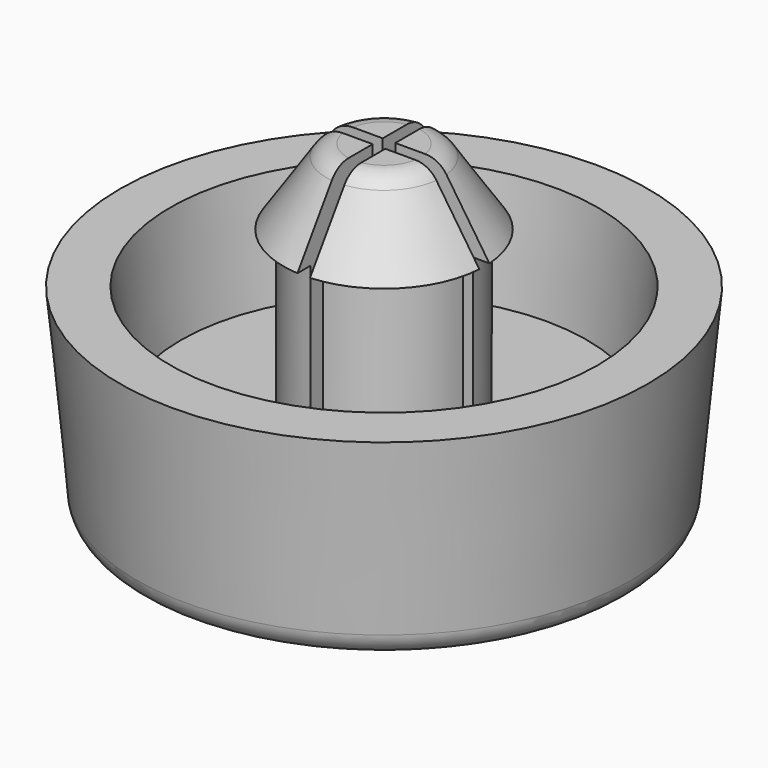
from build123d import *

# Parameters (mm, degrees)
F2_W     = 0.5
F2_H     = 0.5
F3_DEPTH = 9
F4_R     = 1
F5_R     = 1


with BuildPart() as f1:
    # F0 (on Front) → F1 (revolve)
    with BuildSketch(Plane.XZ):
        Polygon((7.75, 0), (9.75, 0), (10.5, 8), (8.5, 8), (8.0775014419, 3.4933487132), (3.35, 3.4933487132), (3.35, 10), (4, 10), (2, 13), (0, 13), (0, 8), (0, 1.4933487132), (3.25, 1.4933487132), (7.75, 1.5), align=None)
    revolve(axis=Axis((0, 0, 4), (0, 0, 1)))

    # F2 (on face) → F3 (cut)
    with BuildSketch(Plane.XY.offset(13)):
        with BuildLine():
            ThreePointArc((-1.9843134833, -0.25), (-2, 0), (-1.9843134833, 0.25))
            Line((-1.9843134833, 0.25), (-4, 0.25))
            Line((-4, 0.25), (-4, -0.25))
            Line((-4, -0.25), (-1.9843134833, -0.25))
        make_face()
        with BuildLine():
            Line((-0.25, -0.25), (-0.25, 0.25))
            Line((-0.25, 0.25), (-1.9843134833, 0.25))
            ThreePointArc((-1.9843134833, 0.25), (-2, 0), (-1.9843134833, -0.25))
            Line((-1.9843134833, -0.25), (-0.25, -0.25))
        make_face()
        Rectangle(F2_W, F2_H)
        with BuildLine():
            Line((1.9843134833, 0.25), (0.25, 0.25))
            Line((0.25, 0.25), (0.25, -0.25))
            Line((0.25, -0.25), (1.9843134833, -0.25))
            ThreePointArc((1.9843134833, -0.25), (1.9960745185, -0.1252458251), (2, 0))
            ThreePointArc((2, 0), (1.9960745185, 0.1252458251), (1.9843134833, 0.25))
        make_face()
        with BuildLine():
            Line((4, 0.25), (1.9843134833, 0.25))
            ThreePointArc((1.9843134833, 0.25), (1.9960745185, 0.1252458251), (2, 0))
            ThreePointArc((2, 0), (1.9960745185, -0.1252458251), (1.9843134833, -0.25))
            Line((1.9843134833, -0.25), (4, -0.25))
            Line((4, -0.25), (4, 0.25))
        make_face()
        with BuildLine():
            Line((0.25, 1.9843134833), (0.25, 4))
            Line((0.25, 4), (-0.25, 4))
            Line((-0.25, 4), (-0.25, 1.9843134833))
            ThreePointArc((-0.25, 1.9843134833), (0, 2), (0.25, 1.9843134833))
        make_face()
        with BuildLine():
            Line((0.25, 0.25), (0.25, 1.9843134833))
            ThreePointArc((0.25, 1.9843134833), (0, 2), (-0.25, 1.9843134833))
            Line((-0.25, 1.9843134833), (-0.25, 0.25))
            Line((-0.25, 0.25), (0.25, 0.25))
        make_face()
        with BuildLine():
            Line((0.25, -1.9843134833), (0.25, -0.25))
            Line((0.25, -0.25), (-0.25, -0.25))
            Line((-0.25, -0.25), (-0.25, -1.9843134833))
            ThreePointArc((-0.25, -1.9843134833), (0, -2), (0.25, -1.9843134833))
        make_face()
        with BuildLine():
            Line((0.25, -4), (0.25, -1.9843134833))
            ThreePointArc((0.25, -1.9843134833), (0, -2), (-0.25, -1.9843134833))
            Line((-0.25, -1.9843134833), (-0.25, -4))
            Line((-0.25, -4), (0.25, -4))
        make_face()
    extrude(amount=-F3_DEPTH, mode=Mode.SUBTRACT)

    # F4
    f4_edges = [f1.edges().sort_by_distance(p)[0] for p in [
        (-9.75, 0, 0),
    ]]
    fillet(f4_edges, radius=F4_R)

    # F5
    f5_edges = [f1.edges().sort_by_distance(p)[0] for p in [
        (-1.414214, -1.414214, 13),
        (1.414214, -1.414214, 13),
        (1.414214, 1.414214, 13),
        (-1.414214, 1.414214, 13),
    ]]
    fillet(f5_edges, radius=F5_R)


solid = f1.part
